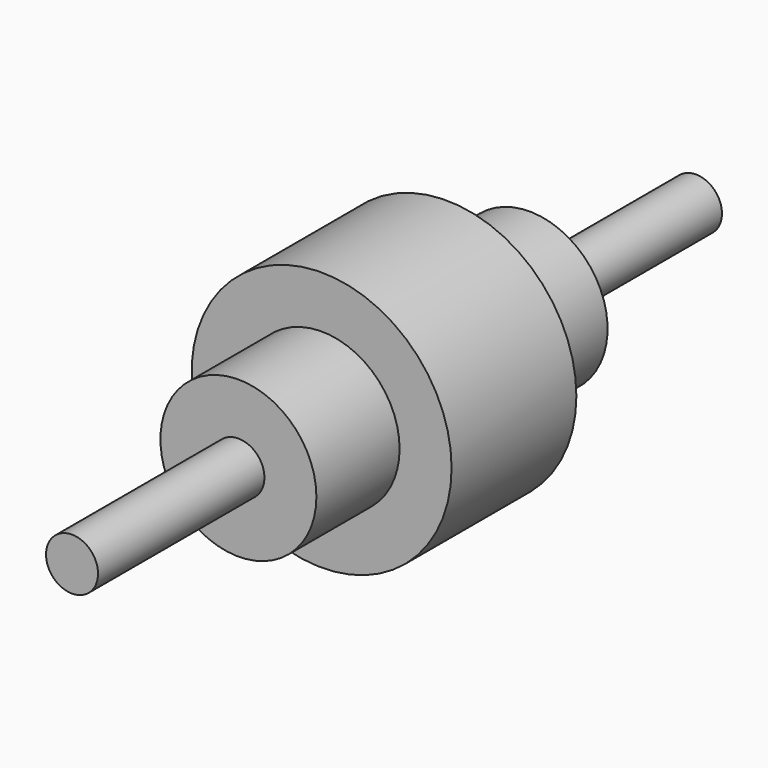
from build123d import *

# Parameters (mm, degrees)
F0_R     = 50
F1_DEPTH = 60
F2_R     = 30
F3_DEPTH = 40
F4_R     = 10
F5_DEPTH = 80
F6_R     = 30
F7_DEPTH = 40
F8_R     = 10
F9_DEPTH = 80


with BuildPart() as f1:
    # F0 (on Front) → F1 (new body)
    with BuildSketch(Plane.XZ):
        Circle(F0_R)
    extrude(amount=F1_DEPTH)

    # F2 (on face) → F3 (join)
    with BuildSketch(Plane.XZ.offset(60)):
        Circle(F2_R)
    extrude(amount=F3_DEPTH)

    # F4 (on face) → F5 (join)
    with BuildSketch(Plane.XZ.offset(100)):
        Circle(F4_R)
    extrude(amount=F5_DEPTH)

    # F6 (on face) → F7 (join)
    with BuildSketch(Plane(origin=(0, 0, 0), x_dir=(-1, 0, 0), z_dir=(0, 1, 0))):
        Circle(F6_R)
    extrude(amount=F7_DEPTH)

    # F8 (on face) → F9 (join)
    with BuildSketch(Plane(origin=(0, 40, 0), x_dir=(-1, 0, 0), z_dir=(0, 1, 0))):
        Circle(F8_R)
    extrude(amount=F9_DEPTH)


solid = f1.part
